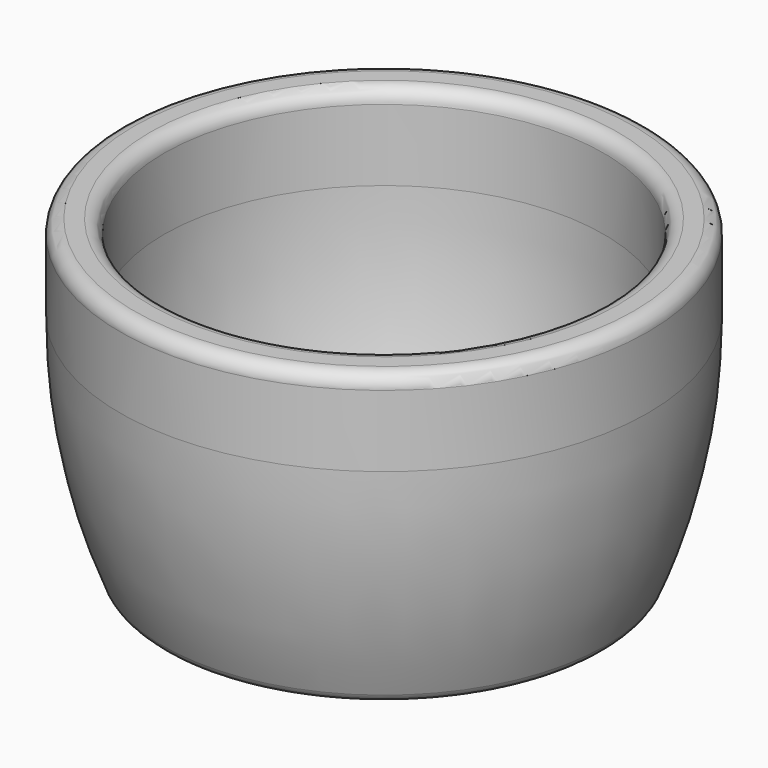
from build123d import *

# Parameters (mm, degrees)
F2_R     = 2
F3_R     = 2
F4_R     = 6
F5_DEPTH = 25
F6_R     = 1


with BuildPart() as f1:
    # F0 (on Front) → F1 (revolve)
    with BuildSketch(Plane.XZ):
        with BuildLine():
            Line((-31.612418592, 45.0012125075), (-37.9349030554, 45.0012125075))
            Line((-37.9349030554, 45.0012125075), (-37.9349030554, 32.7281542122))
            ThreePointArc((-37.9349030554, 32.7281542122), (-36.244155821, 16.0252577282), (-31.2405079603, 0))
            Line((-31.2405079603, 0), (0, 0))
            Line((0, 0), (0, 5.9505733661))
            Line((0, 5.9505733661), (-27.5213997811, 5.9505733661))
            ThreePointArc((-27.5213997811, 5.9505733661), (-30.5837644991, 19.1840109126), (-31.612418592, 32.7281542122))
            Line((-31.612418592, 32.7281542122), (-31.612418592, 45.0012125075))
        make_face()
    revolve(axis=Axis((0, 0, 2.9752866831), (0, 0, 1)))

    # F2
    f2_edges = [f1.edges().sort_by_distance(p)[0] for p in [
        (31.612419, 0, 45.001213),
    ]]
    fillet(f2_edges, radius=F2_R)

    # F3
    f3_edges = [f1.edges().sort_by_distance(p)[0] for p in [
        (37.934903, 0, 45.001213),
        (31.240508, 0, 0),
    ]]
    fillet(f3_edges, radius=F3_R)

    # F4 (on face) → F5 (cut)
    with BuildSketch(Plane(origin=(0, 0, 0), x_dir=(1, 0, 0), z_dir=(0, 0, -1))):
        Circle(F4_R)
    extrude(amount=-F5_DEPTH, mode=Mode.SUBTRACT)

    # F6
    f6_edges = [f1.edges().sort_by_distance(p)[0] for p in [
        (-6, 0, 0),
        (-6, 0, 5.950573),
    ]]
    fillet(f6_edges, radius=F6_R)


solid = f1.part
